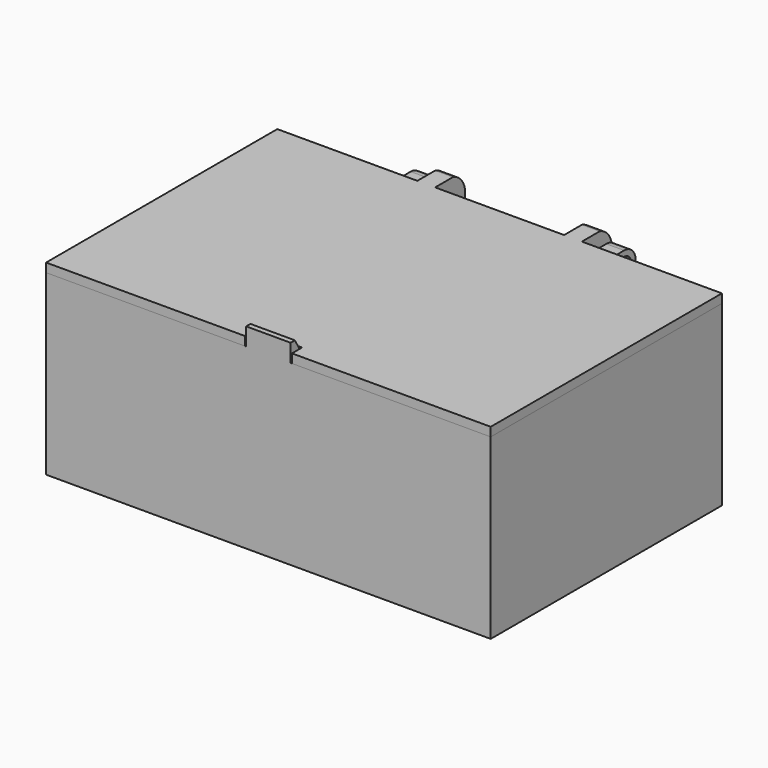
from build123d import *

# Parameters (mm, degrees)
SKETCH_W        = 100
SKETCH_H        = 65
PAD_DEPTH       = 40
SKETCH001_W     = 97.6
SKETCH001_H     = 62.6
POCKET_DEPTH    = 38
PAD001_DEPTH    = 4
SKETCH003_R     = 2
POCKET001_DEPTH = 4
PAD002_DEPTH    = 5
PAD003_DEPTH    = 2
PAD004_DEPTH    = 4
SKETCH007_R     = 1.5
PAD005_DEPTH    = 5
POCKET002_DEPTH = 10.6
PAD006_DEPTH    = 10.6


with BuildPart() as screwbox_100x65:
    # Sketch → Pad (new body)
    with BuildSketch(Plane.XY):
        Rectangle(SKETCH_W, SKETCH_H)
    extrude(amount=PAD_DEPTH)

    # Sketch001 (on Face6 of Pad) → Pocket (cut)
    with BuildSketch(Plane.XY.offset(40)):
        Rectangle(SKETCH001_W, SKETCH001_H)
    extrude(amount=-POCKET_DEPTH, mode=Mode.SUBTRACT)

    # Sketch002 (on DatumPlane) → Pad001 (join)
    with BuildSketch(Plane.YZ.offset(20)):
        with BuildLine():
            Line((32.5, 40), (32.5, 21.589746))
            Line((32.5, 21.589746), (40.314583, 35.125))
            ThreePointArc((40.314583, 35.125), (40.314583, 38.375), (37.5, 40))
            Line((32.5, 40), (37.5, 40))
        make_face()
    pad001 = extrude(amount=PAD001_DEPTH)

    # Mirrored: Pad001 across YZ
    add(pad001.mirror(Plane.YZ))

    # Sketch003 (on Face18 of Mirrored) → Pocket001 (cut)
    with BuildSketch(Plane.YZ.offset(24)):
        with Locations((37.5, 36.75)):
            Circle(SKETCH003_R)
    pocket001 = extrude(amount=-POCKET001_DEPTH, mode=Mode.SUBTRACT)

    # Mirrored001: Pocket001 across YZ
    add(pocket001.mirror(Plane.YZ), mode=Mode.SUBTRACT)

    # Sketch004 → Pad002 (join, symmetric)
    with BuildSketch(Plane.YZ):
        Polygon((-32.5, 40), (-32.5, 44), (-31.3, 44), (-30.145299, 42), (-31.3, 40), align=None)
    extrude(amount=PAD002_DEPTH, both=True)


with BuildPart() as lid_100x65:
    # Sketch005 (on Face1 of CopyPad002) → Pad003 (new body)
    with BuildSketch(Plane.XY.offset(40)):
        Polygon((-5.3, -30.445), (5.3, -30.445), (5.3, -32.5), (50, -32.5), (50, 32.5), (-50, 32.5), (-50, -32.5), (-5.3, -32.5), align=None)
    extrude(amount=PAD003_DEPTH)

    # Sketch006 (on DatumPlane) → Pad004 (join)
    with BuildSketch(Plane(origin=(18.5, 0, 0), x_dir=(0, -1, 0), z_dir=(-1, 0, 0))):
        with BuildLine():
            Line((-32.5, 40), (-32.5, 42))
            Line((-32.5, 42), (-37.5, 42))
            ThreePointArc((-37.5, 42), (-40.593683, 39.252898), (-40.314583, 35.125))
            ThreePointArc((-40.314583, 35.125), (-37.5, 33.5), (-34.685417, 35.125))
            ThreePointArc((-34.685417, 35.125), (-33.468084, 37.506632), (-32.5, 40))
        make_face()
    pad004 = extrude(amount=PAD004_DEPTH)

    # Mirrored002: Pad004 across YZ
    add(pad004.mirror(Plane.YZ))

    # Sketch007 (on Face22 of Mirrored002) → Pad005 (join)
    with BuildSketch(Plane.YZ.offset(18.5)):
        with Locations((37.5, 36.75)):
            Circle(SKETCH007_R)
    pad005 = extrude(amount=PAD005_DEPTH)

    # Mirrored003: Pad005 across YZ
    add(pad005.mirror(Plane.YZ))

    # Sketch008 (on Face2 of Mirrored003) → Pocket002 (cut)
    with BuildSketch(Plane.YZ.offset(-5.3)):
        Polygon((-30.445, 42), (-29.645, 42), (-30.445, 40.614359), align=None)
    extrude(amount=POCKET002_DEPTH, mode=Mode.SUBTRACT)

    # Sketch009 (on Face5 of Pocket002) → Pad006 (join)
    with BuildSketch(Plane.YZ.offset(-5.3)):
        Polygon((-30.445, 40.614359), (-30.735138, 40.2), (-30.735138, 40), (-30.445, 40), align=None)
    extrude(amount=PAD006_DEPTH)


solid = Compound([screwbox_100x65.part, lid_100x65.part])
